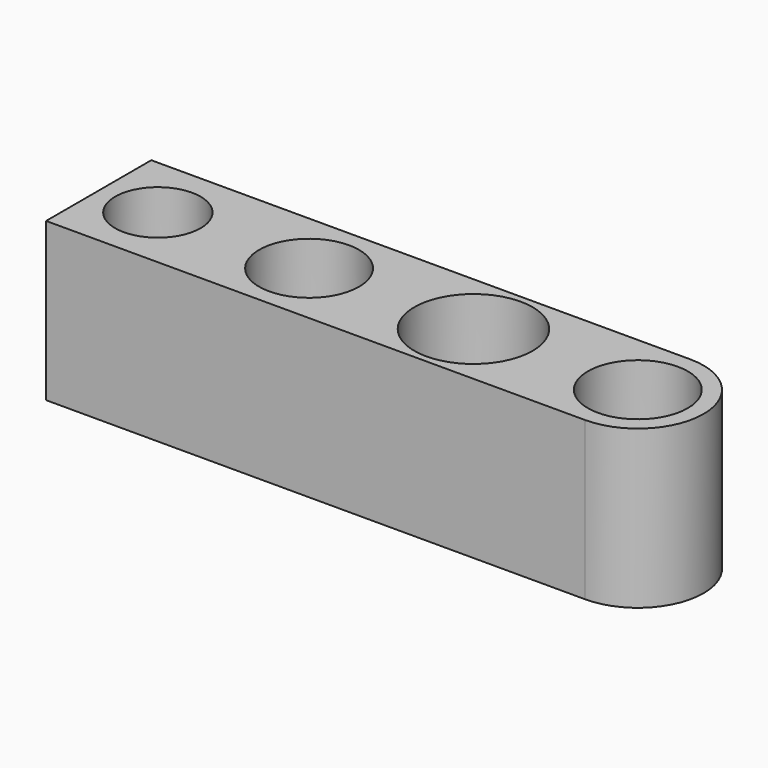
from build123d import *

# Parameters (mm, degrees)
SKETCH_R     = 3.8
SKETCH_R_2   = 4.5
SKETCH_R_3   = 3.25
PAD_DEPTH    = 10
SKETCH001_R  = 1.6
PAD001_DEPTH = 2


with BuildPart() as part:
    # Sketch → Pad (new body)
    with BuildSketch(Plane.XY):
        with BuildLine():
            ThreePointArc((25, -5), (30, 0), (25, 5))
            Line((0, 5), (25, 5))
            Line((0, 5), (-16, 5))
            Line((-16, 5), (-16, -5))
            Line((-16, -5), (0, -5))
            Line((0, -5), (25, -5))
        make_face()
        Circle(SKETCH_R, mode=Mode.SUBTRACT)
        with Locations((25, 0)):
            Circle(SKETCH_R, mode=Mode.SUBTRACT)
        with Locations((12.5, 0)):
            Circle(SKETCH_R_2, mode=Mode.SUBTRACT)
        with Locations((-11.5, 0)):
            Circle(SKETCH_R_3, mode=Mode.SUBTRACT)
    extrude(amount=PAD_DEPTH)

    # Sketch001 (on Face11 of Pad) → Pad001 (join)
    with BuildSketch(Plane(origin=(0, 0, 0), x_dir=(1, 0, 0), z_dir=(0, 0, -1))):
        with BuildLine():
            ThreePointArc((25, -5), (30, 0), (25, 5))
            Line((0, 5), (25, 5))
            Line((0, 5), (-16, 5))
            Line((-16, 5), (-16, -5))
            Line((-16, -5), (0, -5))
            Line((0, -5), (25, -5))
        make_face()
        with Locations((12.5, 0)):
            Circle(SKETCH001_R, mode=Mode.SUBTRACT)
        with Locations((-11.5, 0)):
            Circle(SKETCH001_R, mode=Mode.SUBTRACT)
    extrude(amount=PAD001_DEPTH)


solid = part.part
